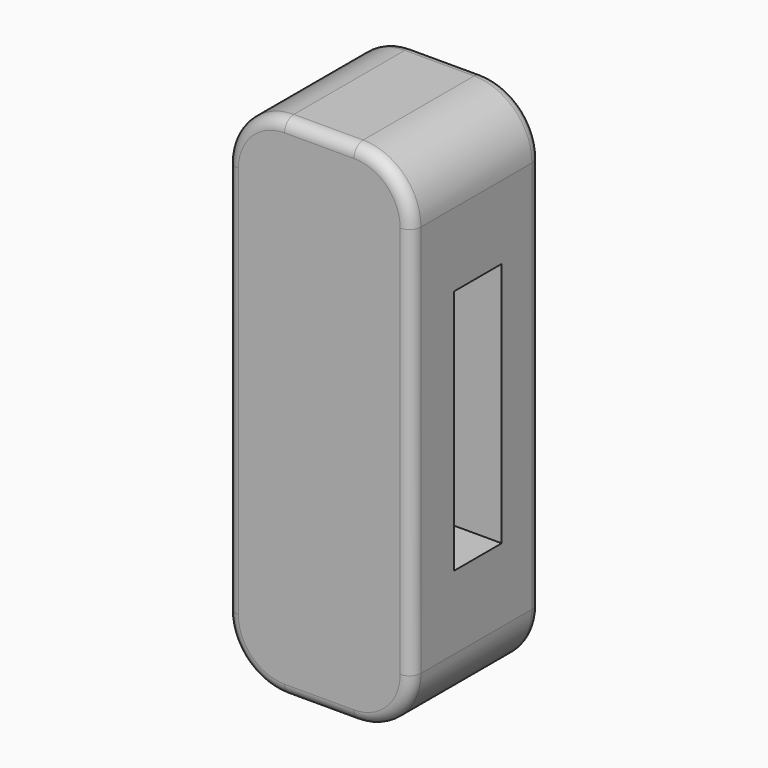
from build123d import *

# Parameters (mm, degrees)
F1_DEPTH = 44.45
F2_R     = 3.175
F3_W     = 16.439201
F3_H     = 67.583382
F4_DEPTH = 50.801


with BuildPart() as f1:
    # F0 (on Front) → F1 (new body)
    with BuildSketch(Plane.XZ):
        with BuildLine():
            ThreePointArc((25.4, 53.975), (20.75032, 65.20032), (9.525, 69.85))
            Line((9.525, 69.85), (-9.525, 69.85))
            ThreePointArc((-9.525, 69.85), (-20.75032, 65.20032), (-25.4, 53.975))
            Line((-25.4, 53.975), (-25.4, -53.975))
            ThreePointArc((-25.4, -53.975), (-20.75032, -65.20032), (-9.525, -69.85))
            Line((-9.525, -69.85), (9.525, -69.85))
            ThreePointArc((9.525, -69.85), (20.75032, -65.20032), (25.4, -53.975))
            Line((25.4, -53.975), (25.4, 53.975))
        make_face()
    extrude(amount=F1_DEPTH)

    # F2
    f2_edges = [f1.edges().sort_by_distance(p)[0] for p in [
        (20.75032, -44.45, 65.20032),
        (20.75032, 0, 65.20032),
    ]]
    fillet(f2_edges, radius=F2_R)

    # F3 (on face) → F4 (cut, through all)
    with BuildSketch(Plane.YZ.offset(25.4)):
        with Locations((-21.764164, 0)):
            Rectangle(F3_W, F3_H)
    extrude(amount=-F4_DEPTH, mode=Mode.SUBTRACT)


solid = f1.part
